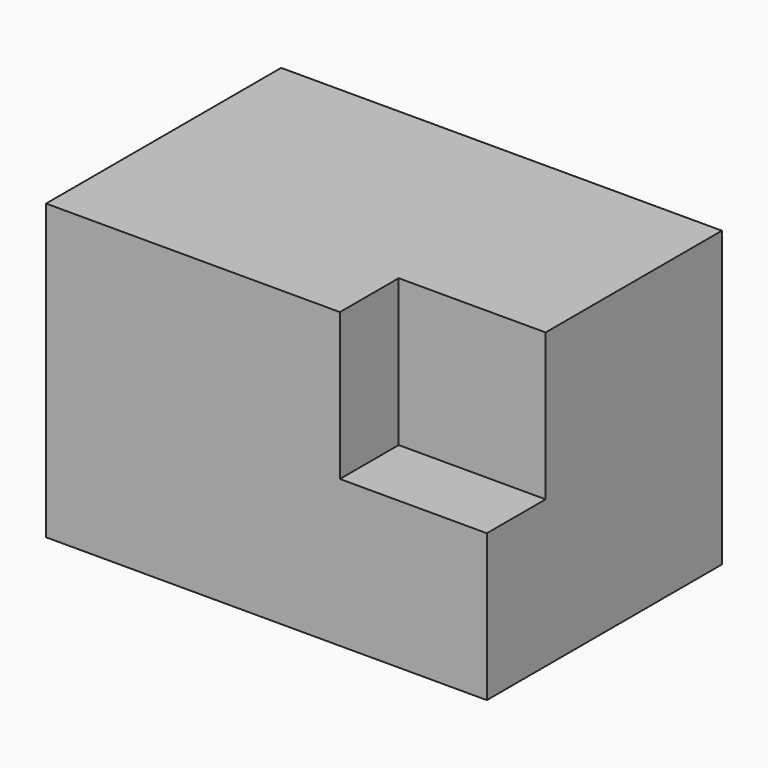
from build123d import *

# Parameters (mm, degrees)
F0_W     = 38.1
F0_H     = 25.4
F1_DEPTH = 12.7
F3_START = 6.35
F2_W     = 12.7
F2_H     = 12.7
F3_DEPTH = 19.05
F4_W     = 12.7
F4_H     = 6.35
F5_DEPTH = 25.4


with BuildPart() as f1:
    # F0 (on Front) → F1 (new body, symmetric)
    with BuildSketch(Plane.XZ):
        with Locations((19.05, 12.7)):
            Rectangle(F0_W, F0_H)
    extrude(amount=F1_DEPTH, both=True)

    # F2 (on Front) → F3 (cut)
    with BuildSketch(Plane.XZ.offset(F3_START)):
        with Locations((31.75, 19.05)):
            Rectangle(F2_W, F2_H)
    extrude(amount=F3_DEPTH, mode=Mode.SUBTRACT)

    # F4 (on Top) → F5 (cut)
    with BuildSketch(Plane.XY):
        with Locations((6.35, 9.525)):
            Rectangle(F4_W, F4_H)
    extrude(amount=-F5_DEPTH, mode=Mode.SUBTRACT)


solid = f1.part
